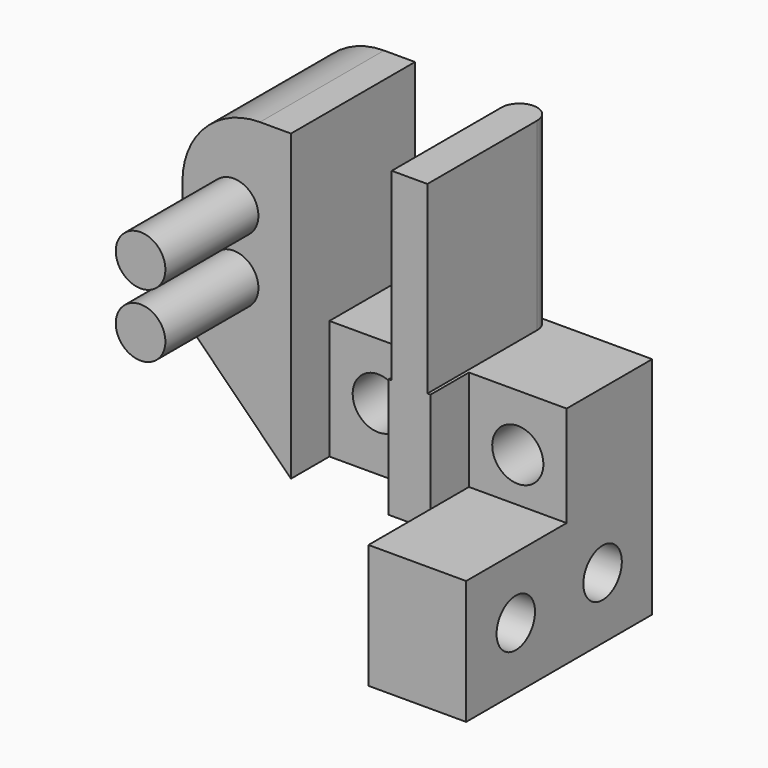
from build123d import *

# Parameters (mm, degrees)
SKETCH_R        = 1.55
PAD_DEPTH       = 6.3
SKETCH002_W     = 5.6
SKETCH002_H     = 5.6
POCKET_DEPTH    = 2
PAD001_DEPTH    = 7.7
SKETCH003_R     = 1.65
POCKET001_DEPTH = 6.901
SKETCH004_W     = 5.6
SKETCH004_H     = 5.6
POCKET002_DEPTH = 2
SKETCH005_W     = 10
SKETCH005_H     = 7
PAD002_DEPTH    = 11.9
SKETCH006_R     = 1.6
PAD003_DEPTH    = 7.5
PAD004_DEPTH    = 11.9
FILLET_R        = 5
CHAMFER_SIZE    = 7


with BuildPart() as part:
    # Sketch → Pad (new body)
    with BuildSketch(Plane.YZ):
        Polygon((-6.9, -4.5), (0, -4.5), (0, -19), (-15, -19), (-15, -11), (-6.9, -11), align=None)
        with Locations((-11, -15)):
            Circle(SKETCH_R, mode=Mode.SUBTRACT)
        with Locations((-4, -15)):
            Circle(SKETCH_R, mode=Mode.SUBTRACT)
    extrude(amount=PAD_DEPTH)

    # Sketch002 (on Face9 of Pad) → Pocket (cut)
    with BuildSketch(Plane(origin=(0, 0, 0), x_dir=(0, 1, 0), z_dir=(-1, 0, 0))):
        with Locations((-4, 15)):
            Rectangle(SKETCH002_W, SKETCH002_H)
        with Locations((-11, 15)):
            Rectangle(SKETCH002_W, SKETCH002_H)
    extrude(amount=-POCKET_DEPTH, mode=Mode.SUBTRACT)

    # Sketch001 (on Face1 of Pad) → Pad001 (join)
    with BuildSketch(Plane(origin=(0, 0, -4.5), x_dir=(0, -1, 0), z_dir=(0, 0, 1))):
        Polygon((0, 0), (0, -16), (10, -16), (10, -9), (6.9, -9), (6.9, -2.7), (10, -2.7), (10, 0), align=None)
    extrude(amount=-PAD001_DEPTH)

    # Sketch003 (on Face1 of Pad001) → Pocket001 (cut, through all)
    with BuildSketch(Plane(origin=(0, -6.9, 0), x_dir=(0, 0, -1), z_dir=(0, -1, 0))):
        with Locations((8.15, -5.85)):
            Circle(SKETCH003_R)
        with Locations((8.15, 3.15)):
            Circle(SKETCH003_R)
    extrude(amount=-POCKET001_DEPTH, mode=Mode.SUBTRACT)

    # Sketch004 (on Face10 of Pocket001) → Pocket002 (cut)
    with BuildSketch(Plane.ZX):
        with Locations((-8.15, 3.15)):
            Rectangle(SKETCH004_W, SKETCH004_H)
        with Locations((-8.15, -5.85)):
            Rectangle(SKETCH004_W, SKETCH004_H)
    extrude(amount=-POCKET002_DEPTH, mode=Mode.SUBTRACT)

    # Sketch005 (on Face5 of Pocket002) → Pad002 (join)
    with BuildSketch(Plane(origin=(0, 0, -4.5), x_dir=(0, -1, 0), z_dir=(0, 0, 1))):
        with Locations((5, -12.5)):
            Rectangle(SKETCH005_W, SKETCH005_H)
    extrude(amount=PAD002_DEPTH)

    # Sketch006 (on Face35 of Pad002) → Pad003 (join)
    with BuildSketch(Plane(origin=(0, -10, 0), x_dir=(0, 0, -1), z_dir=(0, -1, 0))):
        with Locations((-2.05, -12.7)):
            Circle(SKETCH006_R)
        with Locations((2.05, -12.7)):
            Circle(SKETCH006_R)
    extrude(amount=PAD003_DEPTH)

    # Sketch007 (on Face7 of Pad003) → Pad004 (join)
    with BuildSketch(Plane(origin=(0, 0, -4.5), x_dir=(0, -1, 0), z_dir=(0, 0, 1))):
        with BuildLine():
            Line((10, -2.5), (1.15, -2.5))
            ThreePointArc((1.15, -0.2), (0, -1.35), (1.15, -2.5))
            Line((1.15, -0.2), (10, -0.2))
            Line((10, -0.2), (10, -2.5))
        make_face()
    extrude(amount=PAD004_DEPTH)

    # Fillet
    fillet_edges = [part.edges().sort_by_distance(p)[0] for p in [
        (-16, -5, 7.4),
    ]]
    fillet(fillet_edges, radius=FILLET_R)

    # Chamfer
    chamfer_edges = [part.edges().sort_by_distance(p)[0] for p in [
        (-16, -5, -12.2),
    ]]
    chamfer(chamfer_edges, length=CHAMFER_SIZE)


solid = part.part
